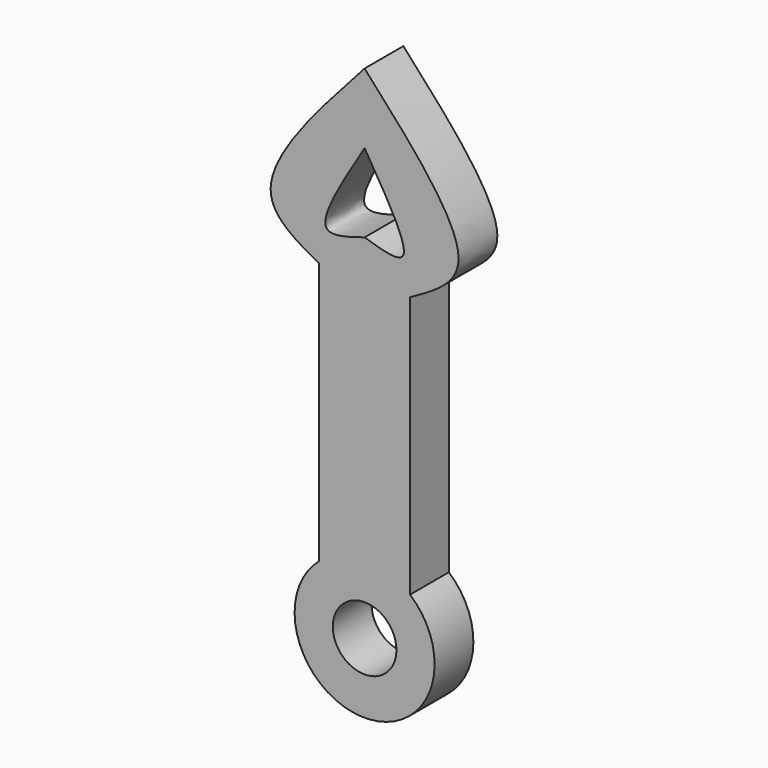
from build123d import *

# Parameters (mm, degrees)
F0_R     = 1.3123652154
F1_DEPTH = 2


with BuildPart() as f1:
    # F0 (on Front) → F1 (new body)
    with BuildSketch(Plane.XZ):
        with BuildLine():
            add(Edge.make_bspline(
                [(0, 26.25), (2.0085576042, 24.0356546825), (5.2801452595, 20.4288748021), (2.8234374445, 19.0764131786), (1.875, 18.5542814434)],
                knots=[0, 0, 0, 0, 0.6139396742, 1, 1, 1, 1], degree=3))
            add(Edge.make_bspline(
                [(0, 26.25), (-2.0085576042, 24.0356546825), (-5.2801452595, 20.4288748021), (-2.8234374445, 19.0764131786), (-1.875, 18.5542814434)],
                knots=[0, 0, 0, 0, 0.6139396742, 1, 1, 1, 1], degree=3))
            Line((-1.875, 18.5542814434), (-1.875, 7.7522047204))
            ThreePointArc((-1.875, 7.7522047204), (0, 2.6690916197), (1.875, 7.7522047204))
            Line((1.875, 7.7522047204), (1.875, 18.5542814434))
        make_face()
        with Locations((0, 5.5564623326)):
            Circle(F0_R, mode=Mode.SUBTRACT)
        with BuildLine():
            add(Edge.make_bspline(
                [(0, 23.3576372266), (-0.9266176114, 21.8466036722), (-2.4538260641, 19.3561880807), (-0.6926145017, 19.9023181859), (0, 20.1170900837)],
                knots=[0, 0, 0, 0, 0.6067394335, 1, 1, 1, 1], degree=3))
            add(Edge.make_bspline(
                [(0, 23.3576372266), (0.9266176114, 21.8466036722), (2.4538260641, 19.3561880807), (0.6926145017, 19.9023181859), (0, 20.1170900837)],
                knots=[0, 0, 0, 0, 0.6067394335, 1, 1, 1, 1], degree=3))
        make_face(mode=Mode.SUBTRACT)
    extrude(amount=F1_DEPTH)


solid = f1.part
